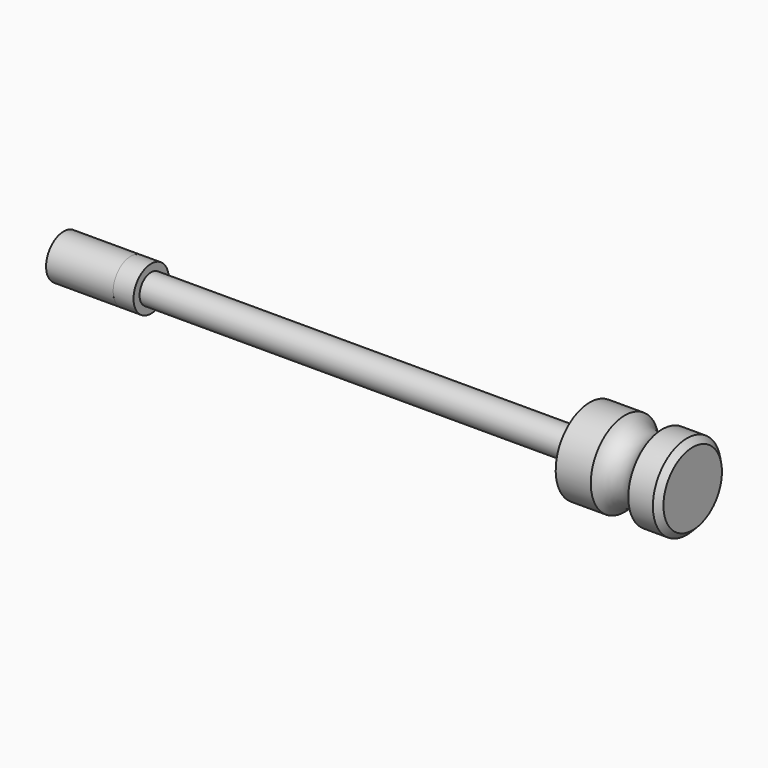
from build123d import *

# Parameters (mm, degrees)
F2_R     = 1.63
F3_DEPTH = 4.97


with BuildPart() as f1:
    # F0 (on Front) → F1 (revolve)
    with BuildSketch(Plane.XZ):
        with BuildLine():
            Line((-16.399302, 1.63), (-16.399302, 0))
            Line((-16.399302, 0), (25.230698, 0))
            Line((25.230698, 0), (25.230698, 2.707285))
            Line((25.230698, 2.707285), (24.800698, 3.15))
            Line((24.800698, 3.15), (22.980698, 3.15))
            ThreePointArc((22.980698, 3.15), (21.590698, 2.4), (20.200698, 3.15))
            Line((20.200698, 3.15), (17.600698, 3.15))
            Line((17.600698, 3.15), (17.600698, 1.075))
            Line((17.600698, 1.075), (-14.889302, 1.075))
            Line((-14.889302, 1.075), (-14.889302, 1.63))
            Line((-14.889302, 1.63), (-16.399302, 1.63))
        make_face()
    revolve(axis=Axis((4.415698, 0, 0), (1, 0, 0)))


with BuildPart() as f3:
    # F2 (on face) → F3 (new body)
    with BuildSketch(Plane(origin=(-16.399302, 0, 0), x_dir=(0, -1, 0), z_dir=(-1, 0, 0))):
        Circle(F2_R)
    extrude(amount=F3_DEPTH)


solid = Compound([f1.part, f3.part])
